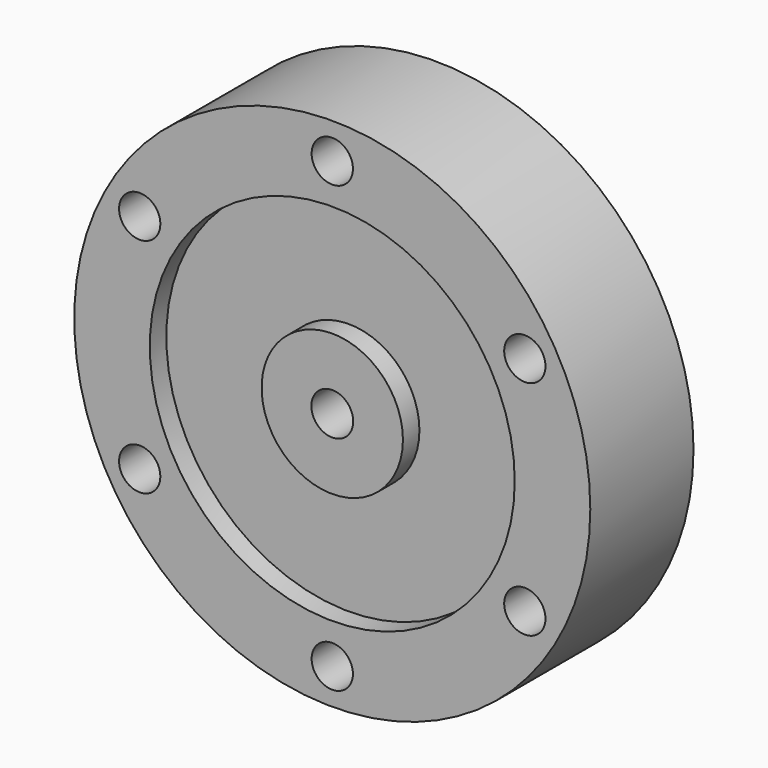
from build123d import *

# Parameters (mm, degrees)
F0_R     = 63.5
F0_R_2   = 5.08
F1_DEPTH = 31.75
F2_R     = 44.9082532623
F3_DEPTH = 5.08
F4_R     = 17.386039325
F5_DEPTH = 5.08
F7_D     = 10.3
F7_DEPTH = 81.4578
F7_TIP   = 3.094432188


with BuildPart() as f1:
    # F0 (on Front) → F1 (new body)
    with BuildSketch(Plane.XZ):
        Circle(F0_R)
        with Locations((-47.3893386877, -27.3602474481)):
            Circle(F0_R_2, mode=Mode.SUBTRACT)
        with Locations((0, -54.7204948962)):
            Circle(F0_R_2, mode=Mode.SUBTRACT)
        with Locations((47.3893386877, -27.3602474481)):
            Circle(F0_R_2, mode=Mode.SUBTRACT)
        with Locations((-47.3893386877, 27.3602474481)):
            Circle(F0_R_2, mode=Mode.SUBTRACT)
        with Locations((47.3893386877, 27.3602474481)):
            Circle(F0_R_2, mode=Mode.SUBTRACT)
        with Locations((0, 54.7204948962)):
            Circle(F0_R_2, mode=Mode.SUBTRACT)
    extrude(amount=F1_DEPTH)

    # F2 (on face) → F3 (cut)
    with BuildSketch(Plane.XZ.offset(31.75)):
        Circle(F2_R)
    extrude(amount=-F3_DEPTH, mode=Mode.SUBTRACT)

    # F4 (on face) → F5 (join)
    with BuildSketch(Plane.XZ.offset(26.67)):
        Circle(F4_R)
    extrude(amount=F5_DEPTH)

    # F7
    with Locations(Plane.XZ.offset(31.75)):
        with Locations((0, 0)):
            Hole(F7_D / 2, depth=F7_DEPTH)
            with Locations((0, 0, -(F7_DEPTH + F7_TIP / 2))):  # 118° drill point
                Cone(0, F7_D / 2, F7_TIP, mode=Mode.SUBTRACT)


solid = f1.part
